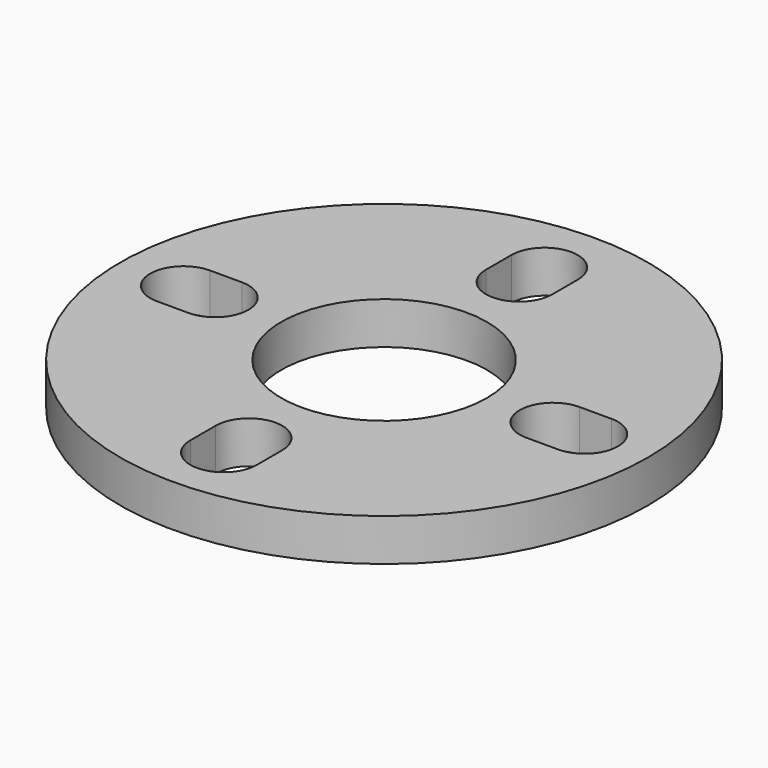
from build123d import *

# Parameters (mm, degrees)
F0_R     = 12.5
F0_R_2   = 4.875
F1_DEPTH = 2


with BuildPart() as f1:
    # F0 (on Top) → F1 (new body)
    with BuildSketch(Plane.XY):
        Circle(F0_R)
        with BuildLine():
            ThreePointArc((-1.575, -8), (0, -6.425), (1.575, -8))
            Line((1.575, -8), (1.575, -9.5))
            ThreePointArc((1.575, -9.5), (0, -11.075), (-1.575, -9.5))
            Line((-1.575, -9.5), (-1.575, -8))
        make_face(mode=Mode.SUBTRACT)
        with BuildLine():
            ThreePointArc((-9.5, -1.575), (-11.075, 0), (-9.5, 1.575))
            Line((-9.5, 1.575), (-8, 1.575))
            ThreePointArc((-8, 1.575), (-6.425, 0), (-8, -1.575))
            Line((-8, -1.575), (-9.5, -1.575))
        make_face(mode=Mode.SUBTRACT)
        Circle(F0_R_2, mode=Mode.SUBTRACT)
        with BuildLine():
            Line((9.5, -1.575), (8, -1.575))
            ThreePointArc((8, -1.575), (6.425, 0), (8, 1.575))
            Line((8, 1.575), (9.5, 1.575))
            ThreePointArc((9.5, 1.575), (11.075, 0), (9.5, -1.575))
        make_face(mode=Mode.SUBTRACT)
        with BuildLine():
            Line((1.575, 9.5), (1.575, 8))
            ThreePointArc((1.575, 8), (0, 6.425), (-1.575, 8))
            Line((-1.575, 8), (-1.575, 9.5))
            ThreePointArc((-1.575, 9.5), (0, 11.075), (1.575, 9.5))
        make_face(mode=Mode.SUBTRACT)
    extrude(amount=F1_DEPTH)


solid = f1.part
